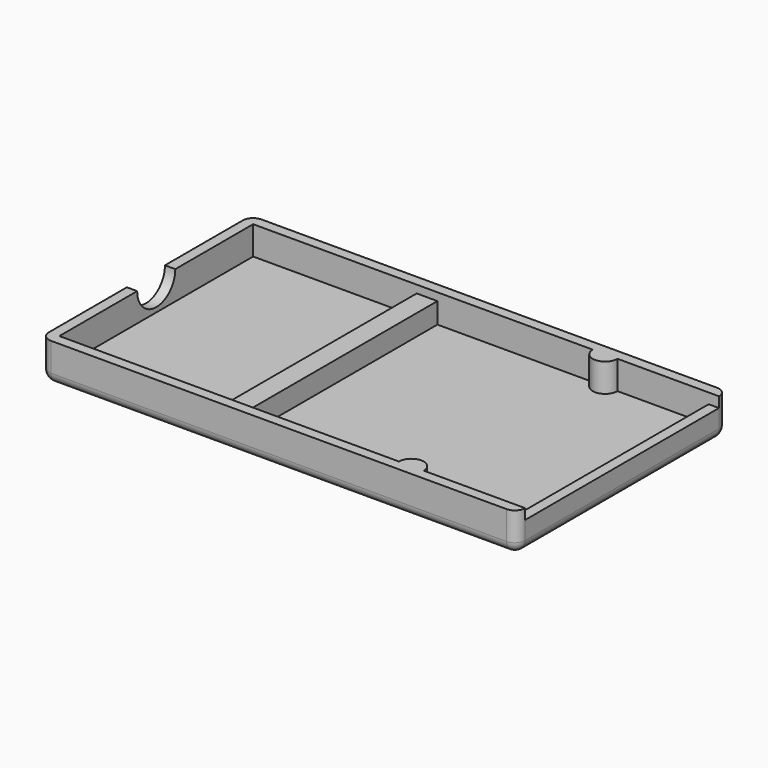
from build123d import *

# Parameters (mm, degrees)
SKETCH010_W     = 44
SKETCH010_H     = 23.4
PAD006_DEPTH    = 2.75
THICKNESS002_T  = 1
SKETCH011_W     = 23.4
SKETCH011_H     = 1
POCKET002_DEPTH = 1
SKETCH012_R     = 2.3
POCKET003_DEPTH = 1
PAD007_DEPTH    = 2.75
SKETCH014_W     = 2
SKETCH014_H     = 23.4
PAD008_DEPTH    = 2


with BuildPart() as part:
    # Sketch010 → Pad006 (new body)
    with BuildSketch(Plane.XY):
        Rectangle(SKETCH010_W, SKETCH010_H)
    extrude(amount=PAD006_DEPTH)

    # Thickness002
    thickness002_openings = [part.faces().sort_by_distance(p)[0] for p in [
        (0, 0, 2.75),
    ]]
    offset(amount=THICKNESS002_T, openings=thickness002_openings)

    # Sketch011 (on Face7 of Thickness002) → Pocket002 (cut)
    with BuildSketch(Plane.YZ.offset(23)):
        with Locations((0, 2.25)):
            Rectangle(SKETCH011_W, SKETCH011_H)
    extrude(amount=-POCKET002_DEPTH, mode=Mode.SUBTRACT)

    # Sketch012 (on Face15 of Pocket002) → Pocket003 (cut)
    with BuildSketch(Plane(origin=(-23, 0, 0), x_dir=(0, -1, 0), z_dir=(-1, 0, 0))):
        with Locations((0, 2.75)):
            Circle(SKETCH012_R)
    extrude(amount=-POCKET003_DEPTH, mode=Mode.SUBTRACT)

    # Sketch013 (on Face2 of Pocket003) → Pad007 (join)
    with BuildSketch(Plane.XY):
        with BuildLine():
            ThreePointArc((10.8, 11.7), (12, 10.5), (13.2, 11.7))
            Line((10.8, 11.7), (13.2, 11.7))
        make_face()
        with BuildLine():
            ThreePointArc((13.2, -11.7), (12, -10.5), (10.8, -11.7))
            Line((10.8, -11.7), (13.2, -11.7))
        make_face()
    extrude(amount=PAD007_DEPTH)

    # Sketch014 (on Face2 of Pad007) → Pad008 (join)
    with BuildSketch(Plane.XY):
        with Locations((-5.2, 0)):
            Rectangle(SKETCH014_W, SKETCH014_H)
    extrude(amount=PAD008_DEPTH)


solid = part.part
